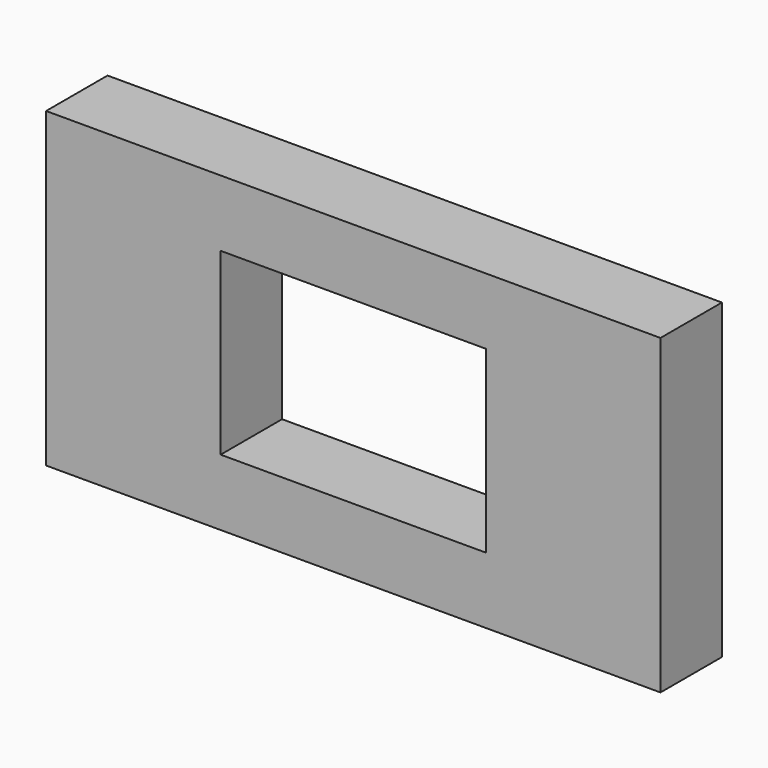
from build123d import *

# Parameters (mm, degrees)
F0_W     = 200
F0_H     = 101.6
F0_W_2   = 86.36
F0_H_2   = 58.42
F1_DEPTH = 25
F2_DEPTH = 25


with BuildPart() as f1:
    # F0 (on Front) → F1 (new body)
    with BuildSketch(Plane.XZ):
        with Locations((-3.004769, 20.843898)):
            Rectangle(F0_W, F0_H)
        with Locations((-3.004769, 20.843898)):
            Rectangle(F0_W_2, F0_H_2, mode=Mode.SUBTRACT)
    extrude(amount=F1_DEPTH)

    # F0 (on Front) → F2 (cut)
    with BuildSketch(Plane.XZ):
        with Locations((-3.004769, 20.843898)):
            Rectangle(F0_W_2, F0_H_2)
    extrude(amount=F2_DEPTH, mode=Mode.SUBTRACT)


solid = f1.part
